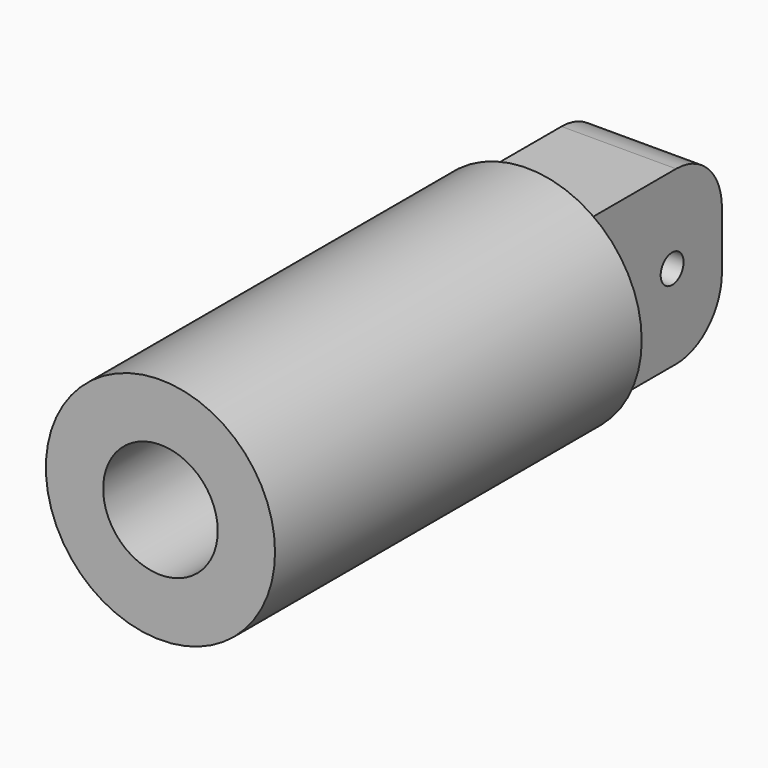
from build123d import *

# Parameters (mm, degrees)
F0_R     = 25.4
F1_DEPTH = 101.6
F2_R     = 12.7
F3_DEPTH = 76.2
F4_W     = 38.1
F4_H     = 38.1
F4_R     = 3.175
F5_DEPTH = 12.7
F6_R     = 12.7


with BuildPart() as f1:
    # F0 (on Front) → F1 (new body)
    with BuildSketch(Plane.XZ):
        Circle(F0_R)
    extrude(amount=F1_DEPTH)

    # F2 (on face) → F3 (cut)
    with BuildSketch(Plane.XZ.offset(101.6)):
        Circle(F2_R)
    extrude(amount=-F3_DEPTH, mode=Mode.SUBTRACT)

    # F4 (on Right) → F5 (join, symmetric)
    with BuildSketch(Plane.YZ):
        with Locations((19.05, 0)):
            Rectangle(F4_W, F4_H)
        with Locations((24.3041142821, 0)):
            Circle(F4_R, mode=Mode.SUBTRACT)
    extrude(amount=F5_DEPTH, both=True)

    # F6
    f6_edges = [f1.edges().sort_by_distance(p)[0] for p in [
        (0, 38.1, 19.05),
        (0, 38.1, -19.05),
    ]]
    fillet(f6_edges, radius=F6_R)


solid = f1.part
